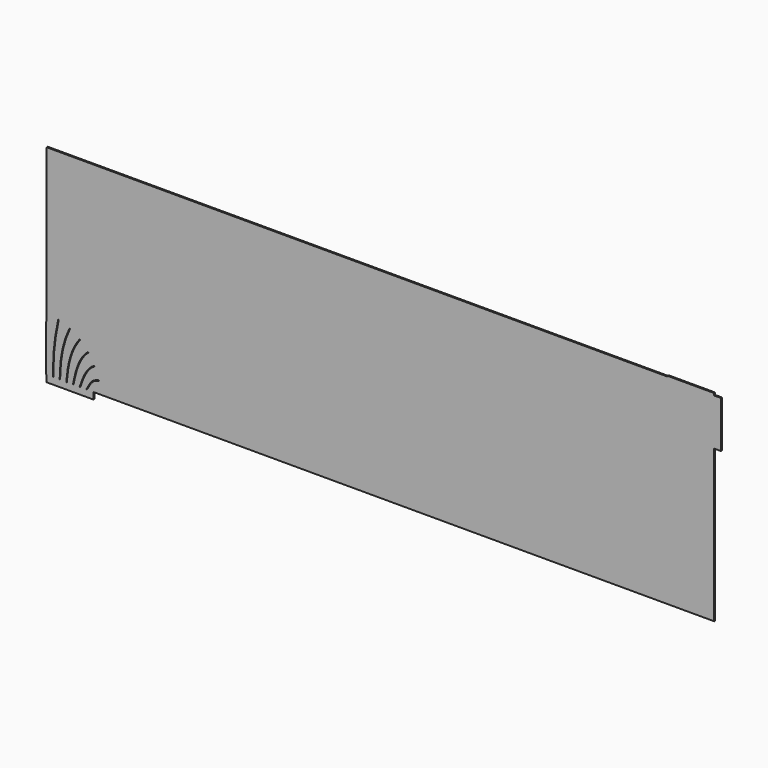
from build123d import *

# Parameters (mm, degrees)
EXTRUDE_DEPTH    = 10
EXTRUDE002_DEPTH = 2


with BuildPart() as extrude_body:
    # Extrude001 → Extrude (new body)
    with BuildSketch(Plane(origin=(-497.646447, 5, -142.853553), x_dir=(-1, 0, 0), z_dir=(0, -1, 0))):
        Polygon((0.353553, 4.646447), (-0.353553, 5.353553), (-0.353553, -4.646447), (0.353553, -5.353553), align=None)
        with BuildLine():
            Line((0.353553, -5.353553), (-0.353553, -4.646447))
            add(Edge.make_bspline(
                [(-0.353553, -4.646447), (-0.353553, -38.459309), (-8.155228, -72.64068)],
                knots=[13.797896, 13.797896, 13.797896, 81.348308, 81.348308, 81.348308], degree=2))
            Line((-8.155228, -72.64068), (-7.448121, -73.347786))
            add(Edge.make_bspline(
                [(0.353553, -5.353553), (0.353553, -39.166416), (-7.448121, -73.347786)],
                knots=[13.797896, 13.797896, 13.797896, 81.348308, 81.348308, 81.348308], degree=2))
        make_face()
        Polygon((-9.646447, 4.646447), (-10.353553, 5.353553), (-10.702548, -4.640355), (-9.995442, -5.347462), align=None)
        with BuildLine():
            Line((-9.995442, -5.347462), (-10.702548, -4.640355))
            add(Edge.make_bspline(
                [(-10.702548, -4.640355), (-11.917215, -39.423851), (-25.064253, -66.723956)],
                knots=[-74.623097, -74.623097, -74.623097, -14.39671, -14.39671, -14.39671], degree=2))
            Line((-25.064253, -66.723956), (-24.357146, -67.431063))
            add(Edge.make_bspline(
                [(-9.995442, -5.347462), (-11.210108, -40.130958), (-24.357146, -67.431063)],
                knots=[-74.623097, -74.623097, -74.623097, -14.39671, -14.39671, -14.39671], degree=2))
        make_face()
        Polygon((-19.646447, 4.646447), (-20.353553, 5.353553), (-21.398838, -4.591666), (-20.691731, -5.298772), align=None)
        with BuildLine():
            Line((-20.691731, -5.298772), (-21.398838, -4.591666))
            add(Edge.make_bspline(
                [(-21.398838, -4.591666), (-24.907666, -37.975933), (-40.232738, -57.192965)],
                knots=[-61.054819, -61.054819, -61.054819, -12.899631, -12.899631, -12.899631], degree=2))
            Line((-40.232738, -57.192965), (-39.525631, -57.900072))
            add(Edge.make_bspline(
                [(-20.691731, -5.298772), (-24.200559, -38.68304), (-39.525631, -57.900072)],
                knots=[-61.054819, -61.054819, -61.054819, -12.899631, -12.899631, -12.899631], degree=2))
        make_face()
        Polygon((-29.646447, 4.646447), (-30.353553, 5.353553), (-32.43267, -4.427923), (-31.725564, -5.135029), align=None)
        with BuildLine():
            Line((-31.725564, -5.135029), (-32.43267, -4.427923))
            add(Edge.make_bspline(
                [(-32.43267, -4.427923), (-38.517786, -33.05614), (-52.900072, -44.525631)],
                knots=[-43.534083, -43.534083, -43.534083, -7.65215, -7.65215, -7.65215], degree=2))
            Line((-52.900072, -44.525631), (-52.192965, -45.232738))
            add(Edge.make_bspline(
                [(-31.725564, -5.135029), (-37.810679, -33.763247), (-52.192965, -45.232738)],
                knots=[-43.534083, -43.534083, -43.534083, -7.65215, -7.65215, -7.65215], degree=2))
        make_face()
        Polygon((-39.646447, 4.646447), (-40.353553, 5.353553), (-43.773755, -4.043373), (-43.066648, -4.75048), align=None)
        with BuildLine():
            Line((-43.066648, -4.75048), (-43.773755, -4.043373))
            add(Edge.make_bspline(
                [(-43.773755, -4.043373), (-50.980104, -23.842655), (-62.431063, -29.357146)],
                knots=[-28.503789, -28.503789, -28.503789, -3.409115, -3.409115, -3.409115], degree=2))
            Line((-62.431063, -29.357146), (-61.723956, -30.064253))
            add(Edge.make_bspline(
                [(-43.066648, -4.75048), (-50.272997, -24.549761), (-61.723956, -30.064253)],
                knots=[-28.503789, -28.503789, -28.503789, -3.409115, -3.409115, -3.409115], degree=2))
        make_face()
        Polygon((-49.646447, 4.646447), (-50.353553, 5.353553), (-55.353553, -3.306701), (-54.646447, -4.013807), align=None)
        with BuildLine():
            Line((-54.646447, -4.013807), (-55.353553, -3.306701))
            add(Edge.make_bspline(
                [(-55.353553, -3.306701), (-59.460178, -10.419583), (-68.347786, -12.448121)],
                knots=[-5.337971, -5.337971, -5.337971, 10.390639, 10.390639, 10.390639], degree=2))
            Line((-68.347786, -12.448121), (-67.64068, -13.155228))
            add(Edge.make_bspline(
                [(-54.646447, -4.013807), (-58.753071, -11.126689), (-67.64068, -13.155228)],
                knots=[-5.337971, -5.337971, -5.337971, 10.390639, 10.390639, 10.390639], degree=2))
        make_face()
    extrude(amount=EXTRUDE_DEPTH)


with BuildPart() as cut:
    # Sketch → Extrude002 (new body)
    with BuildSketch(Plane.XZ):
        Polygon((-507.364975, -157.790507), (-437.364975, -157.790507), (-437.364975, -147.790507), (492.635025, -147.790507), (492.635025, 79.992619), (502.635025, 79.992619), (502.635025, 149.992619), (492.635025, 149.992619), (492.635025, 153.209493), (422.635025, 153.209493), (422.635025, 152.209493), (-507.364975, 152.209493), (-507.364975, -77.790507), (-508.364975, -77.790507), (-508.364975, -147.790507), (-507.364975, -147.790507), align=None)
    extrude(amount=EXTRUDE002_DEPTH)

    # Cut: cut Extrude body
    add(extrude_body.part, mode=Mode.SUBTRACT)


solid = cut.part
